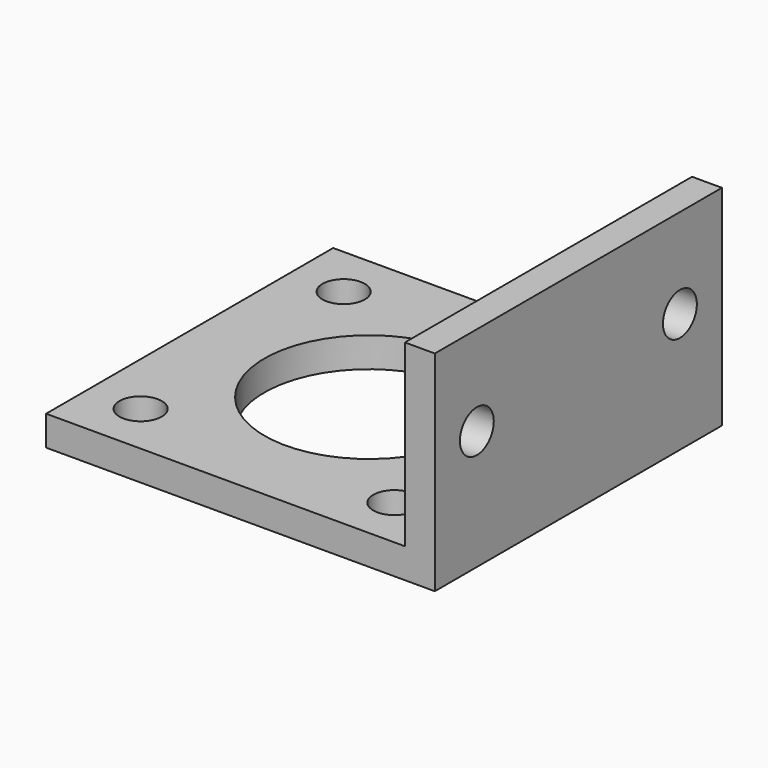
from build123d import *

# Parameters (mm, degrees)
F0_W     = 3.175
F0_H     = 38.1
F1_DEPTH = 22.225
F0_W_2   = 38.1
F0_R     = 11.1125
F2_DEPTH = 3.175
F4_D     = 4.4958
F5_D     = 4.4958
F6_D     = 4.4958
F7_D     = 4.4958
F8_D     = 4.4958
F9_D     = 4.4958


with BuildPart() as f1:
    # F0 (on Top) → F1 (new body)
    with BuildSketch(Plane.XY):
        with Locations((19.05, 0)):
            Rectangle(F0_W, F0_H)
    extrude(amount=F1_DEPTH)

    # F0 (on Top) → F2 (join)
    with BuildSketch(Plane.XY):
        with Locations((-1.5875, 0)):
            Rectangle(F0_W_2, F0_H)
        with Locations((-1.5875, 0)):
            Circle(F0_R, mode=Mode.SUBTRACT)
    extrude(amount=F2_DEPTH)

    # F4 (through all)
    with Locations(Plane(origin=(0, 0, 0), x_dir=(1, 0, 0), z_dir=(0, 0, -1))):
        with Locations((-15.0622, 13.4747)):
            Hole(F4_D / 2)

    # F5 (through all)
    with Locations(Plane(origin=(0, 0, 0), x_dir=(1, 0, 0), z_dir=(0, 0, -1))):
        with Locations((-15.0622, -13.4747)):
            Hole(F5_D / 2)

    # F6 (through all)
    with Locations(Plane(origin=(0, 0, 0), x_dir=(1, 0, 0), z_dir=(0, 0, -1))):
        with Locations((11.8872, -13.4747)):
            Hole(F6_D / 2)

    # F7 (through all)
    with Locations(Plane(origin=(0, 0, 0), x_dir=(1, 0, 0), z_dir=(0, 0, -1))):
        with Locations((11.8872, 13.4747)):
            Hole(F7_D / 2)

    # F8 (through all)
    with Locations(Plane(origin=(17.4625, 0, 0), x_dir=(0, -1, 0), z_dir=(-1, 0, 0))):
        with Locations((-13.4747, 12.7)):
            Hole(F8_D / 2)

    # F9 (through all)
    with Locations(Plane(origin=(17.4625, 0, 0), x_dir=(0, -1, 0), z_dir=(-1, 0, 0))):
        with Locations((13.4747, 12.7)):
            Hole(F9_D / 2)


solid = f1.part
